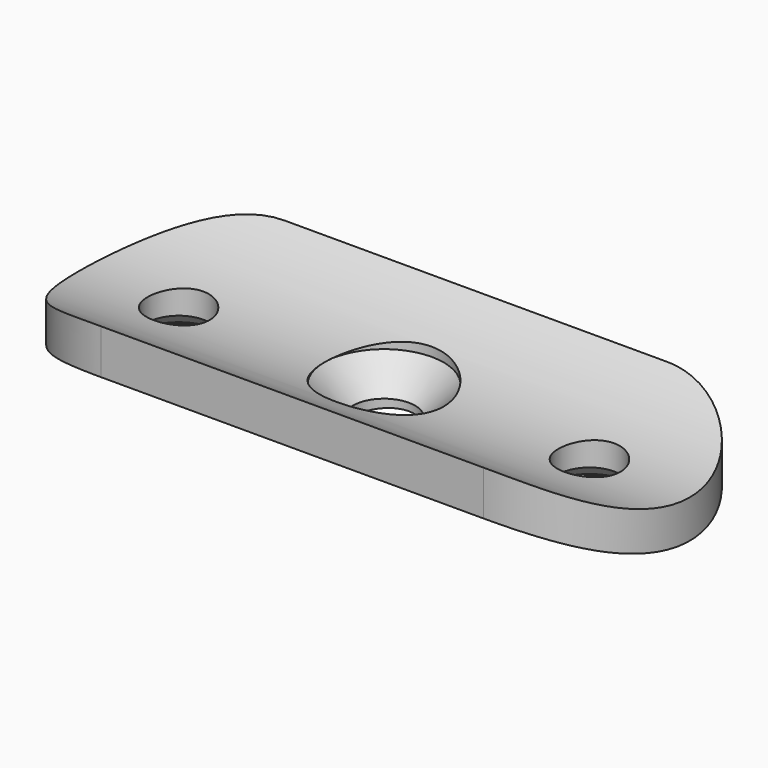
from build123d import *

# Parameters (mm, degrees)
F1_DEPTH       = 20
F3_DEPTH       = 40
F5_D           = 6.5
F5_START       = 0.4050409
F5_CSINK_D     = 9
F5_CSINK_ANGLE = 90
F8_D           = 6.5
F8_START       = 1.0000001
F8_CSINK_D     = 12.5
F8_CSINK_ANGLE = 90


with BuildPart() as f1:
    # F0 (on Top) → F1 (new body)
    with BuildSketch(Plane.XY):
        with BuildLine():
            ThreePointArc((-20, 12), (-32, 0), (-20, -12))
            Line((-20, -12), (20, -12))
            ThreePointArc((20, -12), (32, 0), (20, 12))
            Line((20, 12), (-20, 12))
        make_face()
    extrude(amount=F1_DEPTH)

    # F2 (on Right) → F3 (intersect, symmetric)
    with BuildSketch(Plane.YZ):
        with BuildLine():
            ThreePointArc((15, 10.218678296), (0, 4), (-15, 10.218678296))
            Line((-15, 10.218678296), (-15, 4.9505555632))
            ThreePointArc((-15, 4.9505555632), (0, 0), (15, 4.9505555632))
            Line((15, 4.9505555632), (15, 10.218678296))
        make_face()
    extrude(amount=F3_DEPTH, both=True, mode=Mode.INTERSECT)

    # F5 (through all)
    # its depths count from where the whole tool has entered the part; down to there all is cleared
    with Locations(Plane(origin=(0, 0, 0), x_dir=(1, 0, 0), z_dir=(0, 0, -1)).offset(-F5_START)):
        with Locations((-21.5, 0), (21.5, 0)):
            CounterSinkHole(F5_D / 2, F5_CSINK_D / 2, counter_sink_angle=F5_CSINK_ANGLE)

    # F8 (through all)
    # its depths count from where the whole tool has entered the part; down to there all is cleared
    with Locations(Plane.XY.offset(5).offset(-F8_START)):
        with Locations((0, 0)):
            CounterSinkHole(F8_D / 2, F8_CSINK_D / 2, counter_sink_angle=F8_CSINK_ANGLE)


solid = f1.part
